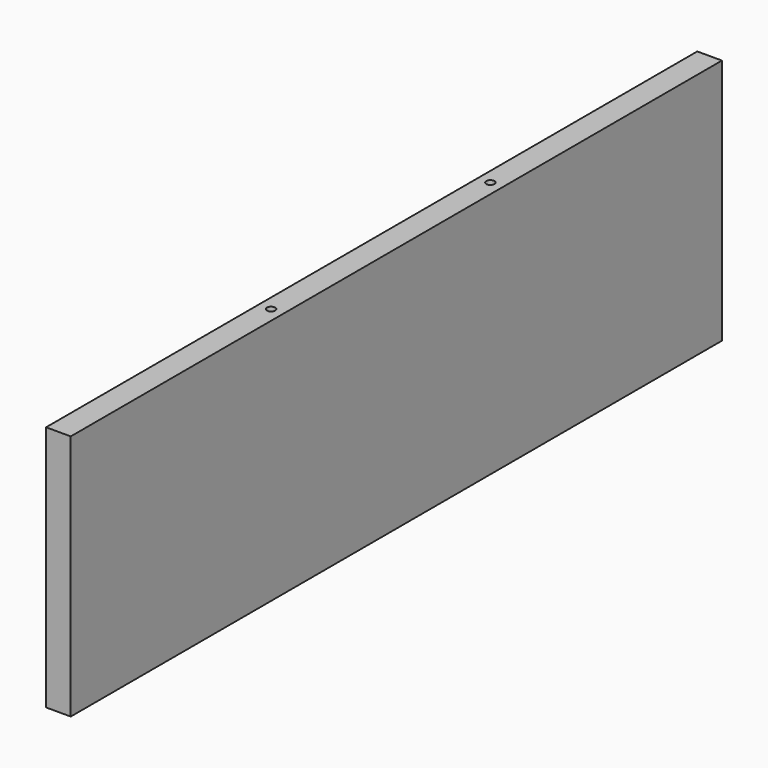
from build123d import *

# Parameters (mm, degrees)
F0_W           = 495
F0_H           = 150
F1_DEPTH       = 7.5
F4_D           = 5
F4_DEPTH       = 30
F4_TIP         = 1.5021515476
F4_ON_F3_D     = 5
F4_ON_F3_DEPTH = 30
F4_ON_F3_TIP   = 1.5021515476


with BuildPart() as f1:
    # F0 (on Right) → F1 (new body, symmetric)
    with BuildSketch(Plane.YZ):
        Rectangle(F0_W, F0_H)
    extrude(amount=F1_DEPTH, both=True)

    # F4
    with Locations(Plane.XY.offset(75)):
        with Locations((0, 80.837), (0, -85.833)):
            Hole(F4_D / 2, depth=F4_DEPTH)
            with Locations((0, 0, -(F4_DEPTH + F4_TIP / 2))):  # 118° drill point
                Cone(0, F4_D / 2, F4_TIP, mode=Mode.SUBTRACT)

    # F4 on F3
    with Locations(Plane(origin=(0, 0, -75), x_dir=(1, 0, 0), z_dir=(0, 0, -1))):
        with Locations((0, 85.84), (0, -80.83)):
            Hole(F4_ON_F3_D / 2, depth=F4_ON_F3_DEPTH)
            with Locations((0, 0, -(F4_ON_F3_DEPTH + F4_ON_F3_TIP / 2))):  # 118° drill point
                Cone(0, F4_ON_F3_D / 2, F4_ON_F3_TIP, mode=Mode.SUBTRACT)


solid = f1.part
